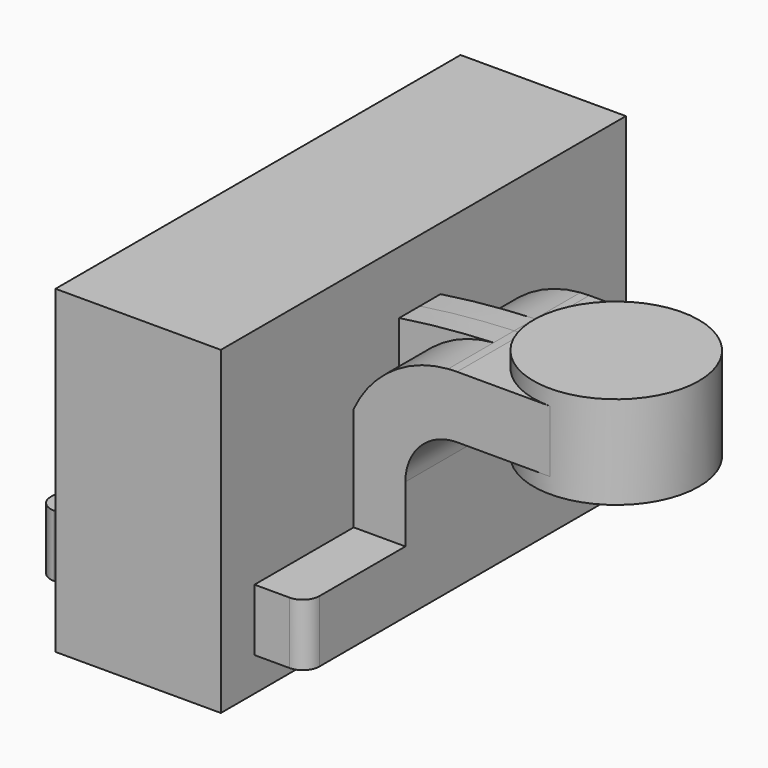
from build123d import *

# Parameters (mm, degrees)
F1_DEPTH = 63.5
F0_W     = 25.4
F0_H     = 19.05
F2_DEPTH = 25.4
F3_DEPTH = 7.9375
F5_R     = 5.08
F6_W     = 155.536965
F6_H     = 98.214656
F7_DEPTH = 25.4


with BuildPart() as f1:
    # F0 (on Front) → F1 (new body, symmetric)
    with BuildSketch(Plane.XZ):
        Polygon((22.225, 9.525), (-41.275, 9.525), (-41.275, -9.525), (41.275, -9.525), (41.275, 9.525), align=None)
    extrude(amount=F1_DEPTH, both=True)

    # F0 (on Front) → F2 (join, symmetric)
    with BuildSketch(Plane.XZ):
        with BuildLine():
            Line((22.225, 27.0002), (22.225, 9.525))
            Line((22.225, 9.525), (41.275, 9.525))
            Line((41.275, 9.525), (41.275, 27.0002))
            ThreePointArc((41.275, 27.0002), (45.92468, 38.22552), (57.15, 42.8752))
            Line((57.15, 42.8752), (60.325, 42.8752))
            Line((60.325, 42.8752), (60.325, 61.9252))
            Line((60.325, 61.9252), (57.15, 61.9252))
            add(Edge.make_bspline(
                [(54.412857, 61.817777), (55.333893, 61.857951), (56.246565, 61.893672), (57.15, 61.9252)],
                knots=[109.005179, 109.005179, 109.005179, 109.005179, 111.504536, 111.504536, 111.504536, 111.504536], degree=3))
            ThreePointArc((54.412857, 61.817777), (31.504822, 50.708436), (22.225, 27.0002))
        make_face()
        with Locations((73.025, 52.4002)):
            Rectangle(F0_W, F0_H)
    extrude(amount=F2_DEPTH, both=True)

    # F0 (on Front) → F3 (join, symmetric)
    with BuildSketch(Plane.XZ):
        with BuildLine():
            add(Edge.make_bspline(
                [(-41.275, 9.525), (-41.833885, 49.842415), (14.243471, 60.065646), (54.412857, 61.817777)],
                knots=[0, 0, 0, 0, 109.005179, 109.005179, 109.005179, 109.005179], degree=3))
            Line((-41.275, 9.525), (22.225, 9.525))
            Line((22.225, 9.525), (22.225, 27.0002))
            ThreePointArc((22.225, 27.0002), (31.504822, 50.708436), (54.412857, 61.817777))
        make_face()
    extrude(amount=F3_DEPTH, both=True)

    # F0 (on Front) → F4 (revolve)
    with BuildSketch(Plane.XZ):
        Polygon((85.725, 66.675), (85.725, 61.9252), (85.725, 42.8752), (85.725, 38.1), (111.125, 38.1), (111.125, 66.675), align=None)
    revolve(axis=Axis((85.725, 0, 52.3875), (0, 0, 1)))

    # F5
    f5_edges = [f1.edges().sort_by_distance(p)[0] for p in [
        (41.275, -63.5, 0),
        (-41.275, -63.5, 0),
        (41.275, 63.5, 0),
        (-41.275, 63.5, 0),
    ]]
    fillet(f5_edges, radius=F5_R)

    # F6 (on Right) → F7 (join, symmetric)
    with BuildSketch(Plane.YZ):
        with Locations((1.350411, 29.165588)):
            Rectangle(F6_W, F6_H)
    extrude(amount=F7_DEPTH, both=True)


solid = f1.part
